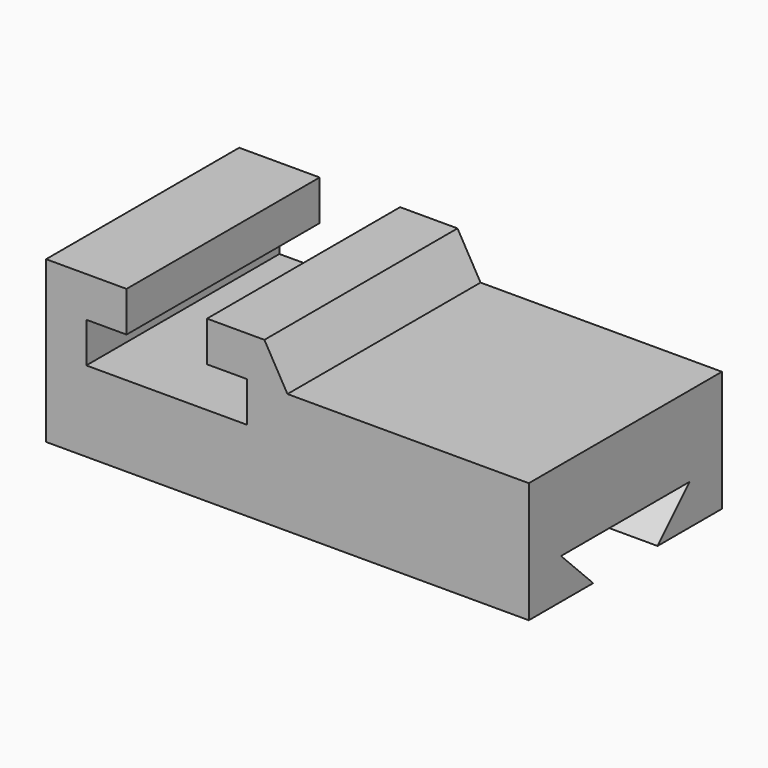
from build123d import *

# Parameters (mm, degrees)
F0_W     = 152.4
F0_H     = 76.2
F1_DEPTH = 50.8
F3_DEPTH = 152.401
F5_DEPTH = 76.201
F6_W     = 76.2
F6_H     = 12.7
F7_DEPTH = 76.201


with BuildPart() as f1:
    # F0 (on Top) → F1 (new body)
    with BuildSketch(Plane.XY):
        Rectangle(F0_W, F0_H)
    extrude(amount=F1_DEPTH)

    # F2 (on face) → F3 (cut, through all)
    with BuildSketch(Plane.YZ.offset(76.2)):
        Polygon((25.40207, 12.7), (-25.4, 12.7), (-12.7, 0), (12.70207, 0), align=None)
    extrude(amount=-F3_DEPTH, mode=Mode.SUBTRACT)

    # F4 (on face) → F5 (cut, through all)
    with BuildSketch(Plane.XZ.offset(38.1)):
        Polygon((-25.4, 50.8), (-50.8, 50.8), (-50.8, 38.1), (-63.5, 38.1), (-63.5, 25.4), (-12.7, 25.4), (-12.7, 38.1), (-25.4, 38.1), align=None)
    extrude(amount=-F5_DEPTH, mode=Mode.SUBTRACT)

    # F6 (on face) → F7 (cut, through all)
    with BuildSketch(Plane.XZ.offset(38.1)):
        with Locations((38.1, 44.45)):
            Rectangle(F6_W, F6_H)
        Polygon((0, 38.1), (0, 50.8), (-7.272681, 50.8), align=None)
    extrude(amount=-F7_DEPTH, mode=Mode.SUBTRACT)


solid = f1.part
